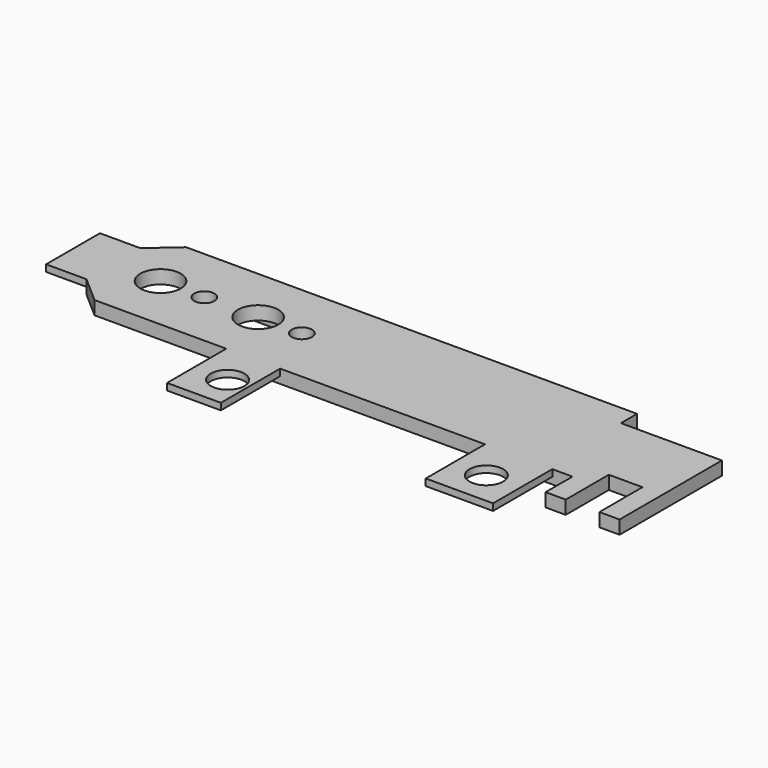
from build123d import *

# Parameters (mm, degrees)
SKETCH_R        = 2.5
PAD_DEPTH       = 2
PAD001_DEPTH    = 3
SKETCH004_W     = 6
SKETCH004_H     = 10
SKETCH004_W_2   = 8
SKETCH004_H_2   = 11
SKETCH004_W_3   = 10
POCKET_DEPTH    = 1
SKETCH005_R     = 3
SKETCH005_R_2   = 1.5
POCKET001_DEPTH = 5


with BuildPart() as part:
    # Sketch → Pad (new body)
    with BuildSketch(Plane.XY):
        Polygon((0, 0), (-6, 0), (-6, -10), (0, -10), (4, -13.5), (23.566, -13.5), (23.566, -24.5), (31.566, -24.5), (31.566, -13.5), (62, -13.5), (62, -24.5), (72, -24.5), (72, -13.5), (75, -13.5), (75, -18.5), (78, -18.5), (78, -10.5), (83, -10.5), (83, -18.5), (86, -18.5), (86, 0.5), (71, 0.5), (71, 3.5), (4, 3.5), align=None)
        with Locations((28.566, -19.5)):
            Circle(SKETCH_R, mode=Mode.SUBTRACT)
        with Locations((67, -19.5)):
            Circle(SKETCH_R, mode=Mode.SUBTRACT)
    extrude(amount=PAD_DEPTH)

    # Sketch003 (on Face27 of Pad) → Pad001 (join)
    with BuildSketch(Plane(origin=(0, 0, 0), x_dir=(1, 0, 0), z_dir=(0, 0, -1))):
        Polygon((6, -3.5), (71, -3.5), (71, 8.5), (69, 8.5), (69, -1.5), (38.5, -1.5), (38.5, 8.5), (36.5, 8.5), (36.5, -1.5), (6, -1.5), align=None)
    extrude(amount=PAD001_DEPTH)

    # Sketch004 (on Face4 of Pad001) → Pocket (cut)
    with BuildSketch(Plane(origin=(0, 0, 0), x_dir=(1, 0, 0), z_dir=(0, 0, -1))):
        with Locations((-3, 5)):
            Rectangle(SKETCH004_W, SKETCH004_H)
        with Locations((27.566, 19)):
            Rectangle(SKETCH004_W_2, SKETCH004_H_2)
        with Locations((67, 19)):
            Rectangle(SKETCH004_W_3, SKETCH004_H_2)
    extrude(amount=-POCKET_DEPTH, mode=Mode.SUBTRACT)

    # Sketch005 (on Face4 of Pocket) → Pocket001 (cut)
    with BuildSketch(Plane(origin=(0, 0, 0), x_dir=(1, 0, 0), z_dir=(0, 0, -1))):
        with Locations((7, 5)):
            Circle(SKETCH005_R)
        with Locations((13.5, 5)):
            Circle(SKETCH005_R_2)
        with Locations((21.5, 5)):
            Circle(SKETCH005_R)
        with Locations((28, 5)):
            Circle(SKETCH005_R_2)
    extrude(amount=-POCKET001_DEPTH, mode=Mode.SUBTRACT)


solid = part.part
